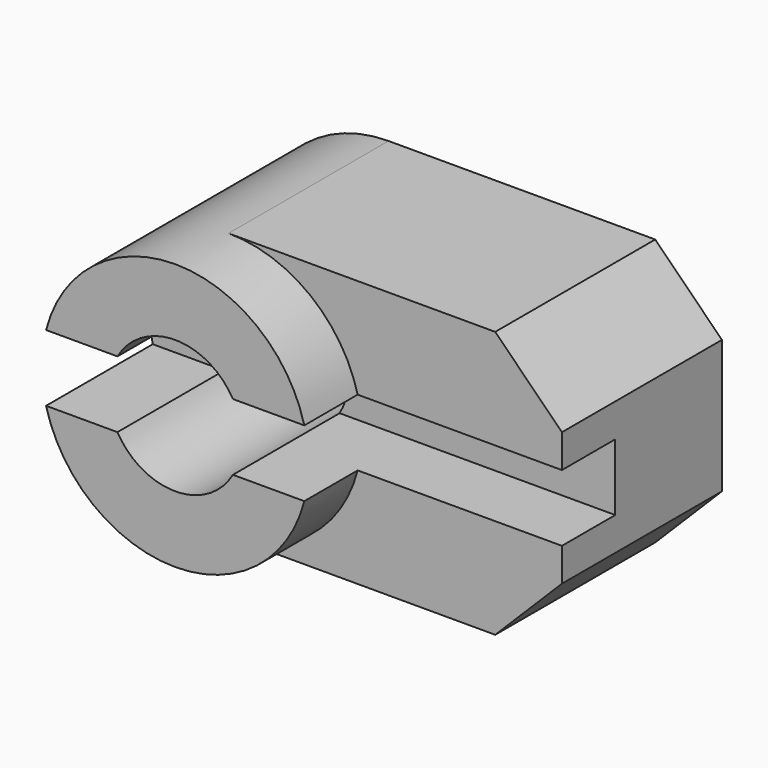
from build123d import *

# Parameters (mm, degrees)
F0_R     = 10
F0_R_2   = 5
F1_DEPTH = 10
F3_DEPTH = 15
F4_W     = 10
F4_H     = 5
F5_DEPTH = 35.001


with BuildPart() as f1:
    # F0 (on Front) → F1 (new body, symmetric)
    with BuildSketch(Plane.XZ):
        Circle(F0_R)
        Circle(F0_R_2, mode=Mode.SUBTRACT)
    extrude(amount=F1_DEPTH, both=True)

    # F2 (on face) → F3 (join)
    with BuildSketch(Plane(origin=(0, 10, 0), x_dir=(-1, 0, 0), z_dir=(0, 1, 0))):
        with BuildLine():
            ThreePointArc((0, -10), (-10, 0), (0, 10))
            Line((0, 10), (-20, 10))
            Line((-20, 10), (-25, 5))
            Line((-25, 5), (-25, -5))
            Line((-25, -5), (-20, -10))
            Line((-20, -10), (0, -10))
        make_face()
    extrude(amount=-F3_DEPTH)

    # F4 (on face) → F5 (cut, through all)
    with BuildSketch(Plane.YZ.offset(25)):
        with Locations((-5, 0)):
            Rectangle(F4_W, F4_H)
    extrude(amount=-F5_DEPTH, mode=Mode.SUBTRACT)


solid = f1.part
